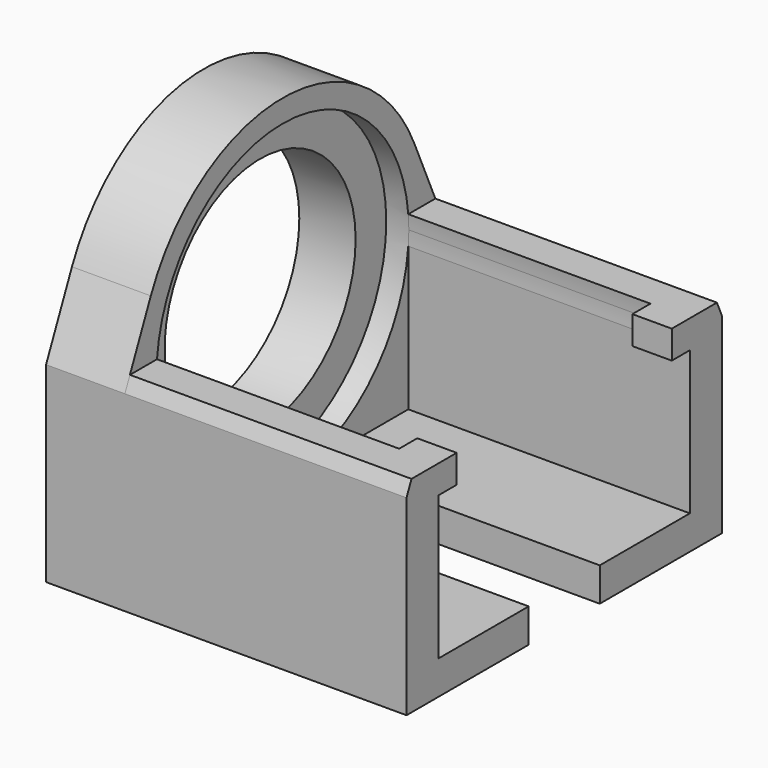
from build123d import *

# Parameters (mm, degrees)
F0_R      = 14
F1_DEPTH  = 2
F3_DEPTH  = 25
F4_R      = 10.6
F5_DEPTH  = 5
F7_R      = 14
F8_DEPTH  = 23.5
F9_W      = 10
F9_H      = 3
F10_DEPTH = 27
F11_DEPTH = 5


with BuildPart() as f1:
    # F0 (on Right) → F1 (new body)
    with BuildSketch(Plane.YZ):
        with BuildLine():
            Line((-17.5, 0), (-17.5, -17))
            Line((-17.5, -17), (0, -17))
            Line((0, -17), (17.5, -17))
            Line((17.5, -17), (17.5, 0))
            Line((17.5, 0), (14.628571, 6.481119))
            ThreePointArc((14.628571, 6.481119), (0, 16), (-14.628571, 6.481119))
            Line((-14.628571, 6.481119), (-17.5, 0))
        make_face()
        Circle(F0_R, mode=Mode.SUBTRACT)
    extrude(amount=F1_DEPTH)

    # F2 (on face) → F3 (join)
    with BuildSketch(Plane.YZ.offset(2)):
        Polygon((-11.934718, -1.25), (-11.934718, 1.25), (-16.946193, 1.25), (-17.5, 0), (-17.5, -17), (-13.944085, -17), (-13.944085, -1.25), align=None)
        Polygon((11.934718, 1.25), (11.934718, -1.25), (13.944085, -1.25), (13.944085, -17), (17.5, -17), (17.5, 0), (16.946193, 1.25), align=None)
    extrude(amount=F3_DEPTH)

    # F4 (on Right) → F5 (join)
    with BuildSketch(Plane.YZ):
        with BuildLine():
            Line((0, -17), (17.5, -17))
            Line((17.5, -17), (17.5, 0))
            Line((17.5, 0), (14.628571, 6.481119))
            ThreePointArc((14.628571, 6.481119), (0, 16), (-14.628571, 6.481119))
            Line((-14.628571, 6.481119), (-17.5, 0))
            Line((-17.5, 0), (-17.5, -17))
            Line((-17.5, -17), (0, -17))
        make_face()
        Circle(F4_R, mode=Mode.SUBTRACT)
    extrude(amount=-F5_DEPTH)

    # F7 (on offset) → F8 (cut)
    with BuildSketch(Plane.YZ.offset(23.5)):
        Circle(F7_R)
    extrude(amount=-F8_DEPTH, mode=Mode.SUBTRACT)

    # F9 (on Right) → F10 (join)
    with BuildSketch(Plane.YZ):
        with Locations((-8.944085, -15.5)):
            Rectangle(F9_W, F9_H)
        with Locations((8.944085, -15.5)):
            Rectangle(F9_W, F9_H)
    extrude(amount=F10_DEPTH)

    # F9 (on Right) → F11 (join)
    with BuildSketch(Plane.YZ):
        with Locations((-8.944085, -15.5)):
            Rectangle(F9_W, F9_H)
        with Locations((8.944085, -15.5)):
            Rectangle(F9_W, F9_H)
    extrude(amount=-F11_DEPTH)


solid = f1.part
